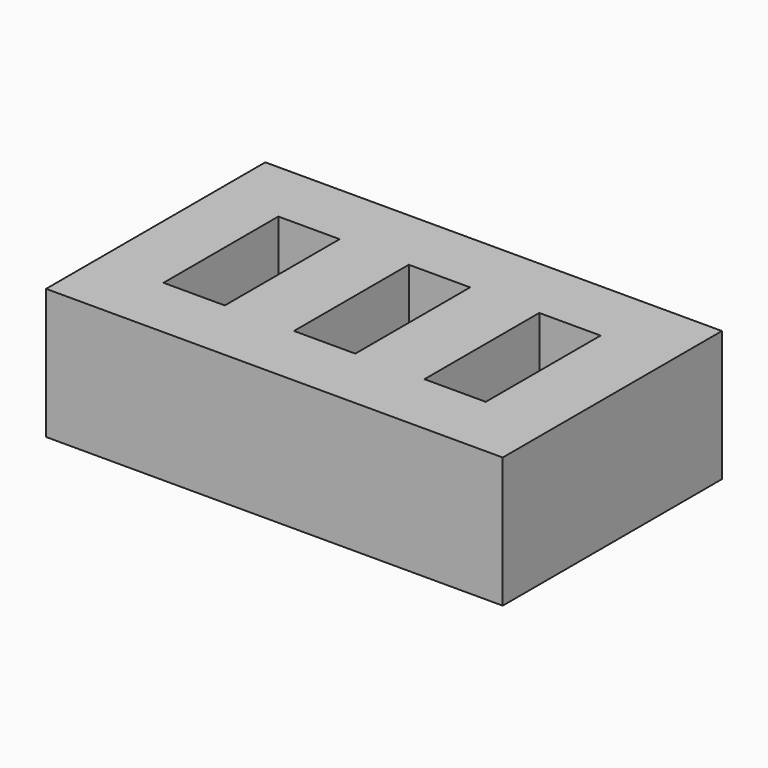
from build123d import *

# Parameters (mm, degrees)
BOX002_W     = 4.7
BOX002_H     = 11
BOX002_DEPTH = 10
BOX003_W     = 4.7
BOX003_H     = 11
BOX003_DEPTH = 10
BOX001_W     = 4.7
BOX001_H     = 11
BOX001_DEPTH = 10
BOX_W        = 35
BOX_H        = 21
BOX_DEPTH    = 10


with BuildPart() as cubo002:
    # Box002 → Box002 (new body)
    with BuildSketch(Plane(origin=(15, 5, 0), x_dir=(1, 0, 0), z_dir=(0, 0, 1))):
        with Locations((2.35, 5.5)):
            Rectangle(BOX002_W, BOX002_H)
    extrude(amount=BOX002_DEPTH)


with BuildPart() as cubo003:
    # Box003 → Box003 (new body)
    with BuildSketch(Plane(origin=(25, 5, 0), x_dir=(1, 0, 0), z_dir=(0, 0, 1))):
        with Locations((2.35, 5.5)):
            Rectangle(BOX003_W, BOX003_H)
    extrude(amount=BOX003_DEPTH)


with BuildPart() as cubo001:
    # Box001 → Box001 (new body)
    with BuildSketch(Plane(origin=(5, 5, 0), x_dir=(1, 0, 0), z_dir=(0, 0, 1))):
        with Locations((2.35, 5.5)):
            Rectangle(BOX001_W, BOX001_H)
    extrude(amount=BOX001_DEPTH)


with BuildPart() as cut002:
    # Box → Box (new body)
    with BuildSketch(Plane.XY):
        with Locations((17.5, 10.5)):
            Rectangle(BOX_W, BOX_H)
    extrude(amount=BOX_DEPTH)

    # Cut: cut Cubo001
    add(cubo001.part, mode=Mode.SUBTRACT)

    # Cut001: cut Cubo003
    add(cubo003.part, mode=Mode.SUBTRACT)

    # Cut002: cut Cubo002
    add(cubo002.part, mode=Mode.SUBTRACT)


solid = cut002.part
